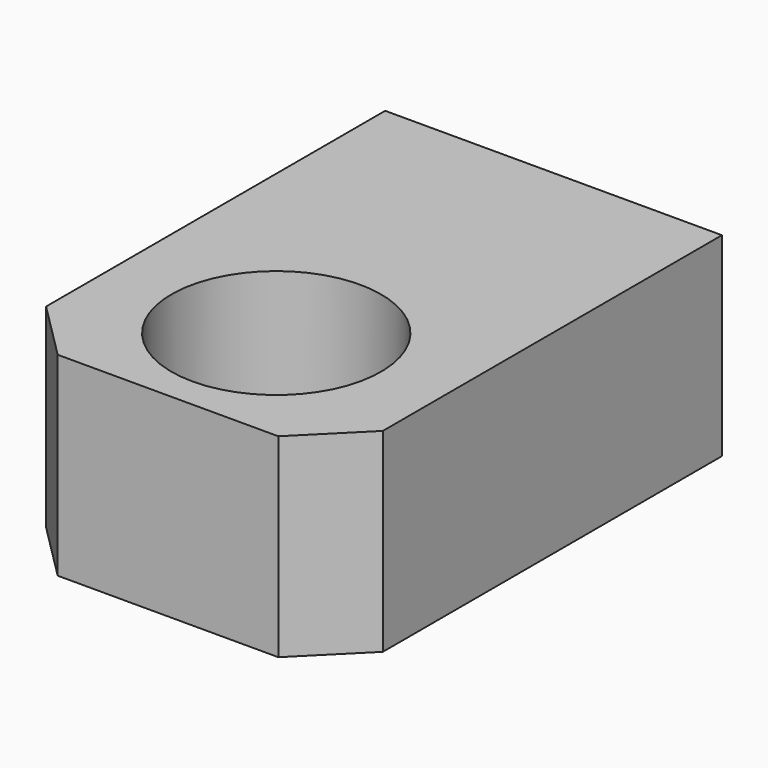
from build123d import *

# Parameters (mm, degrees)
SKETCH014_W     = 83
SKETCH014_H     = 33.5
PAD008_DEPTH    = 29
CHAMFER001_SIZE = 10
SKETCH018_R     = 18.052065
POCKET006_DEPTH = 33.501


with BuildPart() as part:
    # Sketch014 → Pad008 (new body, symmetric)
    with BuildSketch(Plane.YZ):
        with Locations((-41.5, 0)):
            Rectangle(SKETCH014_W, SKETCH014_H)
    extrude(amount=PAD008_DEPTH, both=True)

    # Chamfer001
    chamfer001_edges = [part.edges().sort_by_distance(p)[0] for p in [
        (-29, -83, 0),
        (29, -83, 0),
    ]]
    chamfer(chamfer001_edges, length=CHAMFER001_SIZE)

    # Sketch018 (on Face8 of Chamfer001) → Pocket006 (cut, through all)
    with BuildSketch(Plane(origin=(0, 0, 16.75), x_dir=(0, -1, 0), z_dir=(0, 0, 1))):
        with Locations((59.696613, 0)):
            Circle(SKETCH018_R)
    extrude(amount=-POCKET006_DEPTH, mode=Mode.SUBTRACT)


solid = part.part
